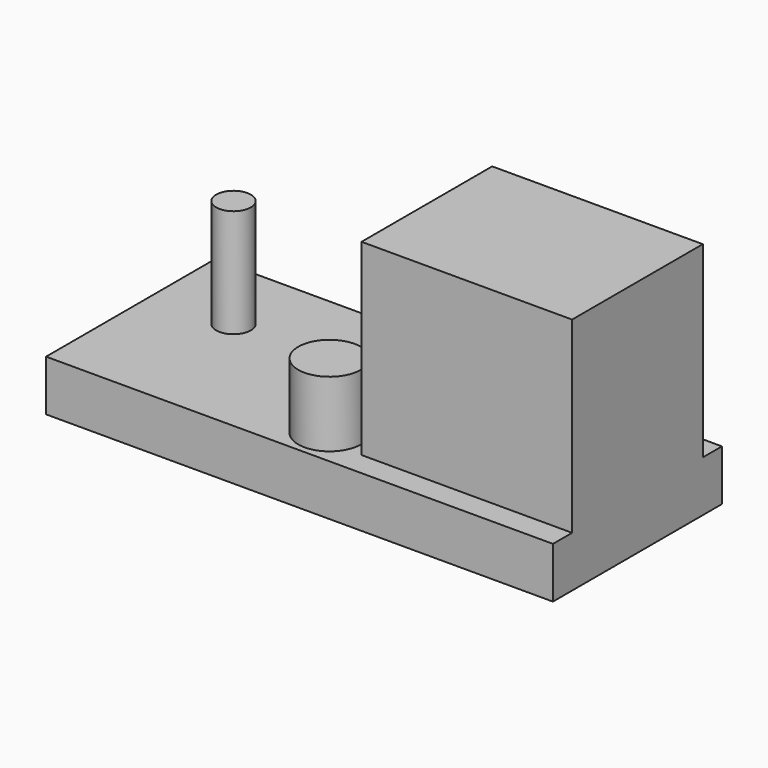
from build123d import *

# Parameters (mm, degrees)
F0_R     = 2.54
F0_R_2   = 1.4097
F0_W     = 17.0942
F0_H     = 13.2588
F1_DEPTH = 4.1275
F2_DEPTH = 15.24
F3_DEPTH = 8.7884
F4_DEPTH = 5.334


with BuildPart() as f1:
    # F0 (on Top) → F1 (new body)
    with BuildSketch(Plane.XY):
        Polygon((20.574, 8.5725), (-20.574, 8.5725), (-20.574, -8.5725), (20.574, -8.5725), (20.574, -6.6294), (3.4798, -6.6294), (3.4798, 6.6294), (20.574, 6.6294), align=None)
        with Locations((0, -5.5245)):
            Circle(F0_R, mode=Mode.SUBTRACT)
        with Locations((-14.097, 2.3495)):
            Circle(F0_R_2, mode=Mode.SUBTRACT)
        with Locations((12.0269, 0)):
            Rectangle(F0_W, F0_H)
        with Locations((0, -5.5245)):
            Circle(F0_R)
        with Locations((-14.097, 2.3495)):
            Circle(F0_R_2)
    extrude(amount=-F1_DEPTH)

    # F0 (on Top) → F2 (join)
    with BuildSketch(Plane.XY):
        with Locations((12.0269, 0)):
            Rectangle(F0_W, F0_H)
    extrude(amount=F2_DEPTH)

    # F0 (on Top) → F3 (join)
    with BuildSketch(Plane.XY):
        with Locations((-14.097, 2.3495)):
            Circle(F0_R_2)
    extrude(amount=F3_DEPTH)

    # F0 (on Top) → F4 (join)
    with BuildSketch(Plane.XY):
        with Locations((0, -5.5245)):
            Circle(F0_R)
    extrude(amount=F4_DEPTH)


solid = f1.part
